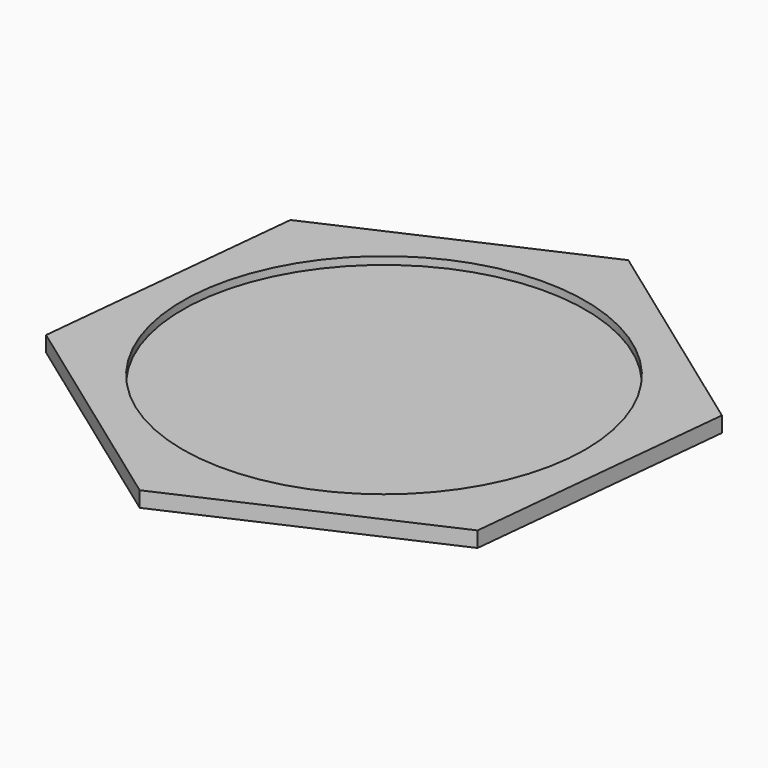
from build123d import *

# Parameters (mm, degrees)
F1_DEPTH = 2.54
F2_R     = 33.02
F3_DEPTH = 1.27
F4_R     = 31.75
F5_DEPTH = 1.016


with BuildPart() as f1:
    # F0 (on Top) → F1 (new body)
    with BuildSketch(Plane.XY):
        Polygon((-4.502899, -44.45), (36.24338, -26.124625), (40.746279, 18.325375), (4.502899, 44.45), (-36.24338, 26.124625), (-40.746279, -18.325375), align=None)
    extrude(amount=F1_DEPTH)

    # F2 (on face) → F3 (cut)
    with BuildSketch(Plane.XY.offset(2.54)):
        Circle(F2_R)
    extrude(amount=-F3_DEPTH, mode=Mode.SUBTRACT)

    # F4 (on face) → F5 (join)
    with BuildSketch(Plane(origin=(0, 0, 0), x_dir=(1, 0, 0), z_dir=(0, 0, -1))):
        Circle(F4_R)
    extrude(amount=F5_DEPTH)


solid = f1.part
